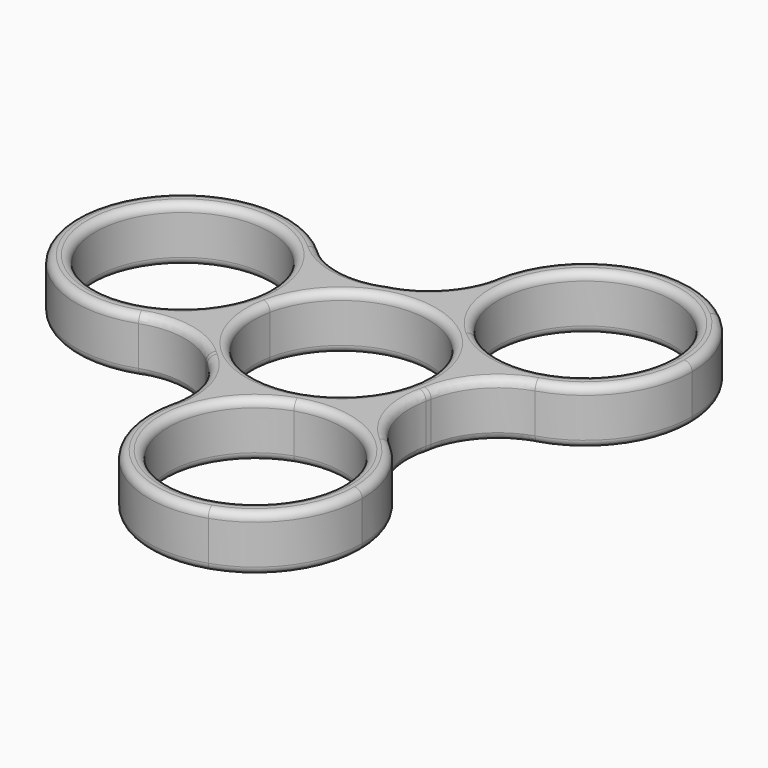
from build123d import *

# Parameters (mm, degrees)
F1_DEPTH = 7
F2_R     = 10
F3_R     = 1


with BuildPart() as f1:
    # F0 (on Top) → F1 (new body)
    with BuildSketch(Plane.XY):
        with BuildLine():
            ThreePointArc((-13.1388533015, -3.1016985541), (-11.6688291485, -0.5765224944), (-10.7765679733, 2.2058065908))
            ThreePointArc((-10.7765679733, 2.2058065908), (-10.571083978, 3.5524432615), (-10.5023560522, 4.9129323161))
            ThreePointArc((-10.5023560522, 4.9129323161), (-10.5929466773, 6.474258744), (-10.8635027507, 8.0146308702))
            ThreePointArc((-10.8635027507, 8.0146308702), (-12.3335268971, 5.4894548252), (-13.2257880724, 2.7071257569))
            ThreePointArc((-13.2257880724, 2.7071257569), (-13.4984883844, -0.2020181593), (-13.1388533015, -3.1016985541))
        make_face()
        with BuildLine():
            ThreePointArc((3.883276908, 12.9294300128), (5.3351314084, 10.3937637772), (7.2985684286, 8.2298784252))
            ThreePointArc((7.2985684286, 8.2298784252), (9.6816108395, 6.5391410259), (12.3726253109, 5.4007539211))
            ThreePointArc((12.3726253109, 5.4007539211), (10.9207708395, 7.9364201168), (8.9573338641, 10.1003054433))
            ThreePointArc((8.9573338641, 10.1003054433), (6.5742914225, 11.791042884), (3.883276908, 12.9294300128))
        make_face()
        with BuildLine():
            ThreePointArc((25.2132364071, 28.4304890897), (8.3194822773, 29.2509549007), (3.883276908, 12.9294300128))
            ThreePointArc((3.883276908, 12.9294300128), (6.5742914225, 11.791042884), (8.9573338641, 10.1003054433))
            ThreePointArc((8.9573338641, 10.1003054433), (10.9207708395, 7.9364201168), (12.3726253109, 5.4007539211))
            ThreePointArc((12.3726253109, 5.4007539211), (24.3127552566, 7.4979579794), (29.7559022189, 18.3301839339))
            ThreePointArc((29.7559022189, 18.3301839339), (28.5679697045, 23.8676015838), (25.2132364071, 28.4304890897))
        make_face()
        with BuildLine():
            ThreePointArc((27.2559022189, 18.3301839339), (20.767872304, 8.2981290122), (8.9573338641, 10.1003054433))
            ThreePointArc((8.9573338641, 10.1003054433), (11.7439321339, 28.3622388555), (27.2559022189, 18.3301839339))
        make_face(mode=Mode.SUBTRACT)
        with BuildLine():
            ThreePointArc((-10.7765679733, 2.2058065908), (-3.4779995076, 10.4356849045), (7.2985684286, 8.2298784252))
            ThreePointArc((7.2985684286, 8.2298784252), (5.3351314084, 10.3937637772), (3.883276908, 12.9294300128))
            ThreePointArc((3.883276908, 12.9294300128), (-4.268454153, 12.807431403), (-10.8635027507, 8.0146308702))
            ThreePointArc((-10.8635027507, 8.0146308702), (-10.5929466773, 6.474258744), (-10.5023560522, 4.9129323161))
            ThreePointArc((-10.5023560522, 4.9129323161), (-10.571083978, 3.5524432615), (-10.7765679733, 2.2058065908))
        make_face()
        with BuildLine():
            ThreePointArc((-37.2281441115, 7.6200581373), (-29.4918109074, -7.4205945677), (-13.1388533015, -3.1016985541))
            ThreePointArc((-13.1388533015, -3.1016985541), (-13.4984883844, -0.2020181593), (-13.2257880724, 2.7071257569))
            ThreePointArc((-13.2257880724, 2.7071257569), (-12.3335268971, 5.4894548252), (-10.8635027507, 8.0146308702))
            ThreePointArc((-10.8635027507, 8.0146308702), (-24.2043741787, 18.411420701), (-37.2281441115, 7.6200581373))
        make_face()
        with BuildLine():
            ThreePointArc((-13.0023560522, 4.9129323161), (-13.0583566055, 3.8043854695), (-13.2257880724, 2.7071257569))
            ThreePointArc((-13.2257880724, 2.7071257569), (-34.9463554989, 6.0214791626), (-13.0023560522, 4.9129323161))
        make_face(mode=Mode.SUBTRACT)
        with BuildLine():
            ThreePointArc((9.2555763935, -9.8277314587), (6.3336977687, -9.8172412207), (3.4779995737, -10.4356848824))
            ThreePointArc((3.4779995737, -10.4356848824), (0.8222568283, -11.654091449), (-1.5091225602, -13.4153847913))
            ThreePointArc((-1.5091225602, -13.4153847913), (1.4127560464, -13.4258750312), (4.2684542249, -12.8074313791))
            ThreePointArc((4.2684542249, -12.8074313791), (6.9241969892, -11.5890248103), (9.2555763935, -9.8277314587))
        make_face()
        with BuildLine():
            ThreePointArc((7.2985684286, 8.2298784252), (10.0320549419, 4.5119700401), (11, 0))
            ThreePointArc((11, 0), (8.9235081473, -6.4320294111), (3.4779995737, -10.4356848824))
            ThreePointArc((3.4779995737, -10.4356848824), (6.3336977687, -9.8172412207), (9.2555763935, -9.8277314587))
            ThreePointArc((9.2555763935, -9.8277314587), (12.3935523824, -5.3525563373), (13.5, 0))
            ThreePointArc((13.5, 0), (13.2151511852, 2.7585828158), (12.3726253109, 5.4007539211))
            ThreePointArc((12.3726253109, 5.4007539211), (9.6816108395, 6.5391410259), (7.2985684286, 8.2298784252))
        make_face()
        with BuildLine():
            ThreePointArc((-1.5091225602, -13.4153847913), (0.8222568283, -11.654091449), (3.4779995737, -10.4356848824))
            ThreePointArc((3.4779995737, -10.4356848824), (-7.2985684787, -8.2298783808), (-10.7765679733, 2.2058065908))
            ThreePointArc((-10.7765679733, 2.2058065908), (-11.6688291485, -0.5765224944), (-13.1388533015, -3.1016985541))
            ThreePointArc((-13.1388533015, -3.1016985541), (-8.9573338757, -10.1003054329), (-1.5091225602, -13.4153847913))
        make_face()
        with BuildLine():
            ThreePointArc((21.2464538333, -23.2431162499), (17.8118190667, -14.2465378604), (9.2555763935, -9.8277314587))
            ThreePointArc((9.2555763935, -9.8277314587), (6.9241969892, -11.5890248103), (4.2684542249, -12.8074313791))
            ThreePointArc((4.2684542249, -12.8074313791), (1.4127560464, -13.4258750312), (-1.5091225602, -13.4153847913))
            ThreePointArc((-1.5091225602, -13.4153847913), (-3.8425708772, -30.1673134063), (12.0149084276, -36.0505475059))
            ThreePointArc((12.0149084276, -36.0505475059), (18.6980321904, -31.1369702826), (21.2464538333, -23.2431162499))
        make_face()
        with BuildLine():
            ThreePointArc((18.7464538333, -23.2431162499), (1.3144244371, -32.166624408), (4.2684542249, -12.8074313791))
            ThreePointArc((4.2684542249, -12.8074313791), (14.1784832295, -14.3196080919), (18.7464538333, -23.2431162499))
        make_face(mode=Mode.SUBTRACT)
    extrude(amount=F1_DEPTH)

    # F2
    f2_edges = [f1.edges().sort_by_distance(p)[0] for p in [
        (12.372625, 5.400754, 3.5),
        (9.255576, -9.827731, 3.5),
        (-1.509123, -13.415385, 3.5),
        (-13.138853, -3.101699, 3.5),
        (-10.863503, 8.014631, 3.5),
        (3.883277, 12.92943, 3.5),
    ]]
    fillet(f2_edges, radius=F2_R)

    # F3
    f3_edges = [f1.edges().sort_by_distance(p)[0] for p in [
        (25.213236, 28.430489, 7),
        (15.650519, 2.493794, 7),
        (0.605384, 15.83639, 7),
        (13.225788, -2.707126, 7),
        (-4.268454, 12.807431, 7),
        (13.412024, -8.442473, 7),
        (-9.984948, 12.30685, 7),
        (12.014908, -36.050548, 7),
        (-37.228144, 7.620058, 7),
        (-5.665571, -14.800644, 7),
        (-14.017408, -7.393918, 7),
        (-8.957334, -10.100305, 7),
        (-3.478, 10.435685, 7),
        (23.554471, 26.560062, 7),
        (-34.778924, 7.118739, 7),
        (11.224453, -33.678801, 7),
        (25.213236, 28.430489, 0),
        (15.650519, 2.493794, 0),
        (0.605384, 15.83639, 0),
        (13.225788, -2.707126, 0),
        (-4.268454, 12.807431, 0),
        (13.412024, -8.442473, 0),
        (-9.984948, 12.30685, 0),
        (12.014908, -36.050548, 0),
        (-37.228144, 7.620058, 0),
        (-5.665571, -14.800644, 0),
        (-14.017408, -7.393918, 0),
        (-8.957334, -10.100305, 0),
        (-3.478, 10.435685, 0),
        (23.554471, 26.560062, 0),
        (-34.778924, 7.118739, 0),
        (11.224453, -33.678801, 0),
    ]]
    fillet(f3_edges, radius=F3_R)


solid = f1.part
